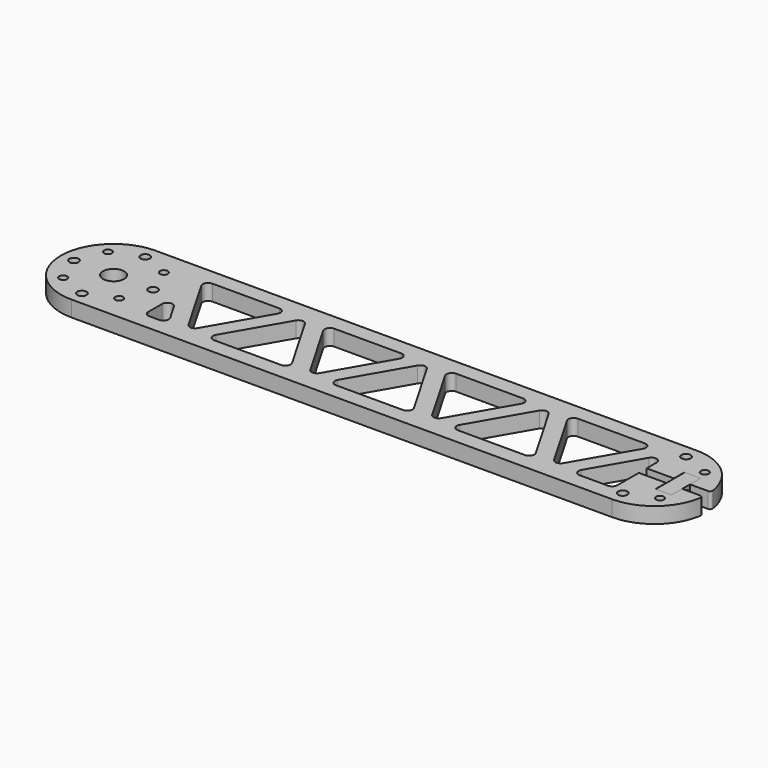
from build123d import *

# Parameters (mm, degrees)
F0_R      = 1.75
F0_R_2    = 1.5
F1_DEPTH  = 6
F3_DEPTH  = 6.001
F4_R      = 2
F9_R      = 2
F10_DEPTH = 20
F13_DEPTH = 6.001
F14_R     = 1
F15_W     = 5
F15_H     = 6
F15_W_2   = 8.7
F15_R     = 1.75
F16_DEPTH = 6


with BuildPart() as f1:
    # F0 (on Top) → F1 (new body)
    with BuildSketch(Plane.XY):
        with BuildLine():
            ThreePointArc((0, 40), (-20, 20), (0, 0))
            Line((0, 0), (205, 0))
            ThreePointArc((205, 0), (225, 20), (205, 40))
            Line((205, 40), (0, 40))
        make_face()
        with Locations((0, 5)):
            Circle(F0_R, mode=Mode.SUBTRACT)
        with Locations((-10.6066017178, 9.3933982822)):
            Circle(F0_R_2, mode=Mode.SUBTRACT)
        with Locations((10.6066017178, 9.3933982822)):
            Circle(F0_R_2, mode=Mode.SUBTRACT)
        with Locations((205, 5)):
            Circle(F0_R, mode=Mode.SUBTRACT)
        with Locations((215.6066017178, 9.3933982822)):
            Circle(F0_R_2, mode=Mode.SUBTRACT)
        with Locations((-15, 20)):
            Circle(F0_R, mode=Mode.SUBTRACT)
        with BuildLine():
            ThreePointArc((4, 20), (-3.69551813, 18.4692662705), (2.8284271247, 22.8284271247))
            ThreePointArc((2.8284271247, 22.8284271247), (3.69551813, 21.5307337295), (4, 20))
        make_face(mode=Mode.SUBTRACT)
        with Locations((15, 20)):
            Circle(F0_R, mode=Mode.SUBTRACT)
        with Locations((-10.6066017178, 30.6066017178)):
            Circle(F0_R_2, mode=Mode.SUBTRACT)
        with BuildLine():
            ThreePointArc((12.1066017178, 30.6066017178), (11.1806268663, 29.220782419), (9.545941546, 29.545941546))
            ThreePointArc((9.545941546, 29.545941546), (10.0325765693, 31.9924210166), (12.1066017178, 30.6066017178))
        make_face(mode=Mode.SUBTRACT)
        with Locations((0, 35)):
            Circle(F0_R, mode=Mode.SUBTRACT)
        with Locations((215.6066017178, 30.6066017178)):
            Circle(F0_R_2, mode=Mode.SUBTRACT)
        with Locations((205, 35)):
            Circle(F0_R, mode=Mode.SUBTRACT)
    extrude(amount=F1_DEPTH)

    # F2 (on face) → F3 (cut, through all)
    with BuildSketch(Plane.XY.offset(6)):
        Polygon((55.0816150746, 34), (22.75, 34), (38.9158075373, 6), align=None)
        Polygon((62.0098183049, 34), (45.8440107676, 6), (78.1756258422, 6), align=None)
        Polygon((85.1038290725, 6), (101.2696366098, 34), (68.9380215352, 34), align=None)
        Polygon((124.3636473774, 6), (108.1978398401, 34), (92.0320323028, 6), align=None)
        Polygon((131.2918506076, 6), (147.457658145, 34), (115.1260430703, 34), align=None)
        Polygon((170.5516689125, 6), (154.3858613752, 34), (138.2200538379, 6), align=None)
        Polygon((177.4798721428, 6), (193.6456796801, 34), (161.3140646055, 34), align=None)
        Polygon((200.5738829104, 6), (200.5738829104, 34), (184.4080753731, 6), align=None)
        Polygon((22.75, 22), (22.75, 6), (31.987604307, 6), align=None)
    extrude(amount=-F3_DEPTH, mode=Mode.SUBTRACT)

    # F4
    f4_edges = [f1.edges().sort_by_distance(p)[0] for p in [
        (22.75, 34, 3),
        (55.081615, 34, 3),
        (38.915808, 6, 3),
        (45.844011, 6, 3),
        (62.009818, 34, 3),
        (78.175626, 6, 3),
        (22.75, 22, 3),
        (22.75, 6, 3),
        (31.987604, 6, 3),
        (68.938022, 34, 3),
        (101.269637, 34, 3),
        (85.103829, 6, 3),
        (92.032032, 6, 3),
        (108.19784, 34, 3),
        (124.363647, 6, 3),
        (115.126043, 34, 3),
        (161.314065, 34, 3),
        (147.457658, 34, 3),
        (193.64568, 34, 3),
        (131.291851, 6, 3),
        (154.385861, 34, 3),
        (170.551669, 6, 3),
        (138.220054, 6, 3),
        (200.573883, 6, 3),
        (184.408075, 6, 3),
        (200.573883, 34, 3),
        (177.479872, 6, 3),
    ]]
    fillet(f4_edges, radius=F4_R)


with BuildPart() as f6:
    # F5 (on Top) → F6 (revolve)
    with BuildSketch(Plane.XY):
        with BuildLine():
            Line((0, 0), (31.1984250992, 0))
            Line((31.1984250992, 0), (31.1984250992, 7))
            Line((31.1984250992, 7), (27.1984250992, 7))
            ThreePointArc((27.1984250992, 7), (10.8859416121, 14.0423851952), (0, 0))
        make_face()
    revolve(axis=Axis((15.5992125496, 0, 0), (-1, 0, 0)))


with BuildPart() as f7_1:
    # F7: copy of F1
    add(f1.part.moved(Location((0, 0, 6))))


with BuildPart() as f8_1:
    # F8: copy of F7_1
    add(f7_1.part.moved(Location((0, 0, 6))))


with BuildPart() as f10_tool:
    # F9 (on face) → F10 (new body)
    with BuildSketch(Plane.YZ.offset(31.1984250992)):
        Circle(F9_R)
    extrude(amount=-F10_DEPTH)


with BuildPart() as f1_1:
    add(f1.part)

    # F10: cut by f10_tool
    add(f10_tool.part, mode=Mode.SUBTRACT)


with BuildPart() as f6_1:
    add(f6.part)

    # F10: cut by f10_tool
    add(f10_tool.part, mode=Mode.SUBTRACT)


with BuildPart() as f7_1_1:
    add(f7_1.part)

    # F12 (on face) → F13 (cut, through all)
    with BuildSketch(Plane.XY.offset(12)):
        Polygon((217, 18.15), (255, 18.15), (255, 21.85), (217, 21.85), (217, 26.85), (210.9, 26.85), (210.9, 21.85), (195, 21.85), (195, 18.15), (210.9, 18.15), (210.9, 13.15), (217, 13.15), align=None)
    extrude(amount=-F13_DEPTH, mode=Mode.SUBTRACT)

    # F14
    f14_edges = [f7_1_1.edges().sort_by_distance(p)[0] for p in [
        (224.914254, 21.85, 9),
        (224.914254, 18.15, 9),
    ]]
    fillet(f14_edges, radius=F14_R)


with BuildPart() as f16:
    # F15 (on face) → F16 (new body)
    with BuildSketch(Plane(origin=(217, 0, 0), x_dir=(0, -1, 0), z_dir=(-1, 0, 0))):
        with Locations((-24.35, 9)):
            Rectangle(F15_W, F15_H)
        with Locations((-17.5, 9)):
            Rectangle(F15_W_2, F15_H)
        with Locations((-20, 9)):
            Circle(F15_R, mode=Mode.SUBTRACT)
    extrude(amount=F16_DEPTH)


solid = Compound([f7_1_1.part, f16.part])
